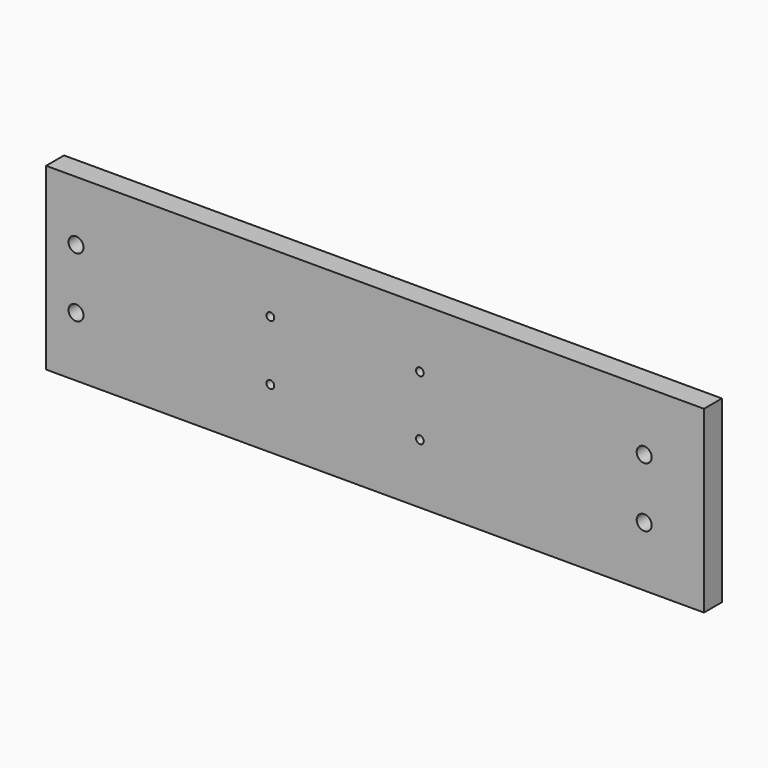
from build123d import *

# Parameters (mm, degrees)
F0_W     = 279.4
F0_H     = 76.2
F0_R     = 3.175
F0_R_2   = 1.651
F1_DEPTH = 9.525


with BuildPart() as f1:
    # F0 (on Front) → F1 (new body)
    with BuildSketch(Plane.XZ):
        Rectangle(F0_W, F0_H)
        with Locations((-127, -12.7)):
            Circle(F0_R, mode=Mode.SUBTRACT)
        with Locations((-44.45, -12.7)):
            Circle(F0_R_2, mode=Mode.SUBTRACT)
        with Locations((19.05, -12.7)):
            Circle(F0_R_2, mode=Mode.SUBTRACT)
        with Locations((114.3, -12.7)):
            Circle(F0_R, mode=Mode.SUBTRACT)
        with Locations((-127, 12.7)):
            Circle(F0_R, mode=Mode.SUBTRACT)
        with Locations((-44.45, 12.7)):
            Circle(F0_R_2, mode=Mode.SUBTRACT)
        with Locations((19.05, 12.7)):
            Circle(F0_R_2, mode=Mode.SUBTRACT)
        with Locations((114.3, 12.7)):
            Circle(F0_R, mode=Mode.SUBTRACT)
    extrude(amount=F1_DEPTH)


solid = f1.part
